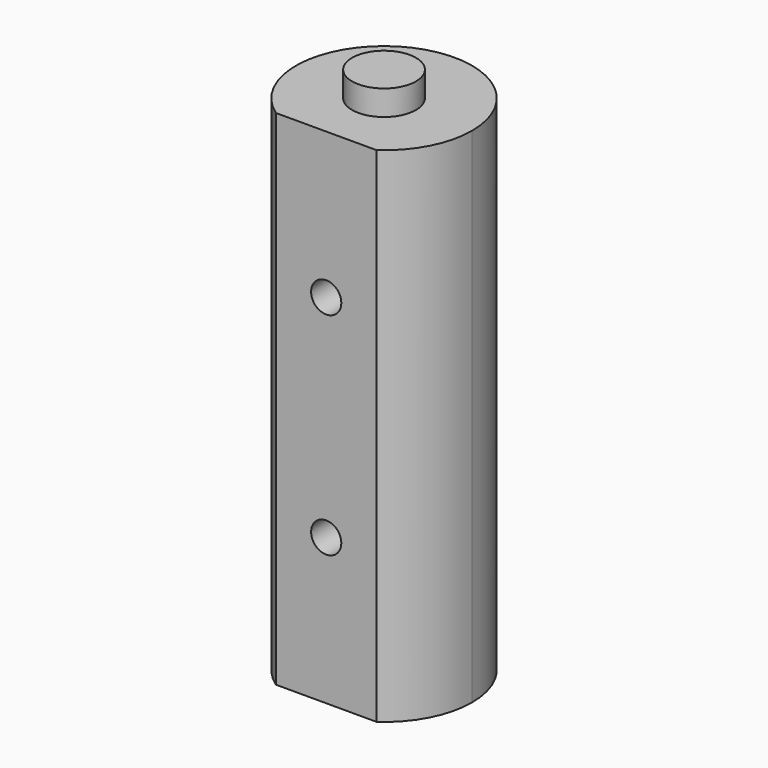
from build123d import *

# Parameters (mm, degrees)
F0_R     = 6.35
F1_DEPTH = 50
F2_DEPTH = 55
F3_R     = 3
F4_DEPTH = 10


with BuildPart() as f1:
    # F0 (on Top) → F1 (new body, symmetric)
    with BuildSketch(Plane.XY):
        with BuildLine():
            ThreePointArc((10, -14.361407), (15.512092, -8.100926), (17.5, 0))
            ThreePointArc((17.5, 0), (-8.100926, 15.512092), (-10, -14.361407))
            Line((-10, -14.361407), (10, -14.361407))
        make_face()
        Circle(F0_R, mode=Mode.SUBTRACT)
        Circle(F0_R)
    extrude(amount=F1_DEPTH, both=True)

    # F0 (on Top) → F2 (join, symmetric)
    with BuildSketch(Plane.XY):
        Circle(F0_R)
    extrude(amount=F2_DEPTH, both=True)

    # F3 (on face) → F4 (cut)
    with BuildSketch(Plane.XZ.offset(14.361407)):
        with Locations((0, 21)):
            Circle(F3_R)
        with Locations((0, -21)):
            Circle(F3_R)
    extrude(amount=-F4_DEPTH, mode=Mode.SUBTRACT)


solid = f1.part
